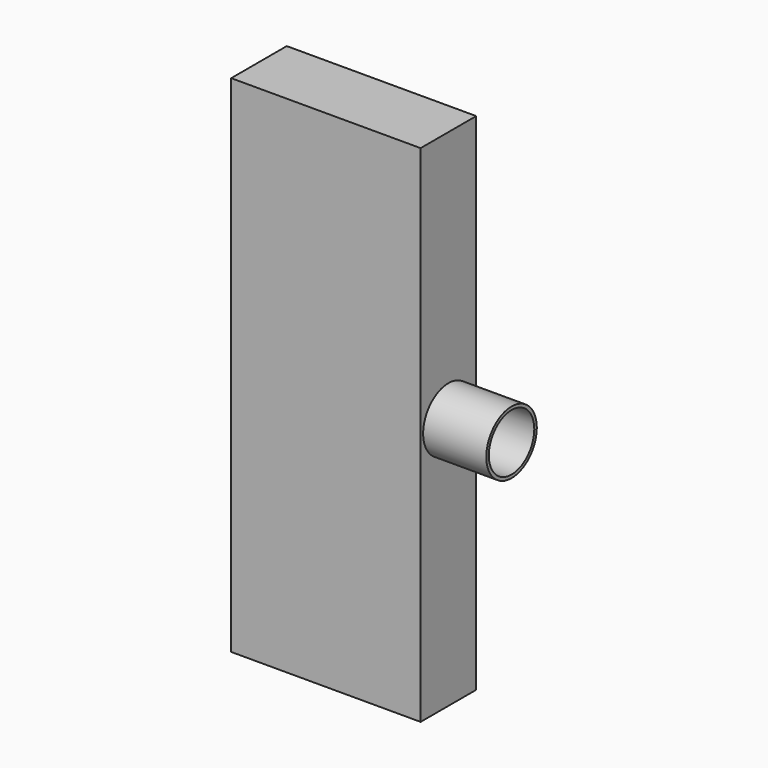
from build123d import *

# Parameters (mm, degrees)
F0_R     = 6.35
F1_DEPTH = 12.7
F2_W     = 13.97
F2_H     = 101.6
F3_DEPTH = 38.1
F4_R     = 5.715
F5_DEPTH = 12.7


with BuildPart() as f1:
    # F0 (on Right) → F1 (new body)
    with BuildSketch(Plane.YZ):
        Circle(F0_R)
    extrude(amount=-F1_DEPTH)

    # F2 (on face) → F3 (join)
    with BuildSketch(Plane(origin=(-12.7, 0, 0), x_dir=(0, -1, 0), z_dir=(-1, 0, 0))):
        Rectangle(F2_W, F2_H)
    extrude(amount=F3_DEPTH)

    # F4 (on face) → F5 (cut)
    with BuildSketch(Plane.YZ):
        Circle(F4_R)
    extrude(amount=-F5_DEPTH, mode=Mode.SUBTRACT)


solid = f1.part
